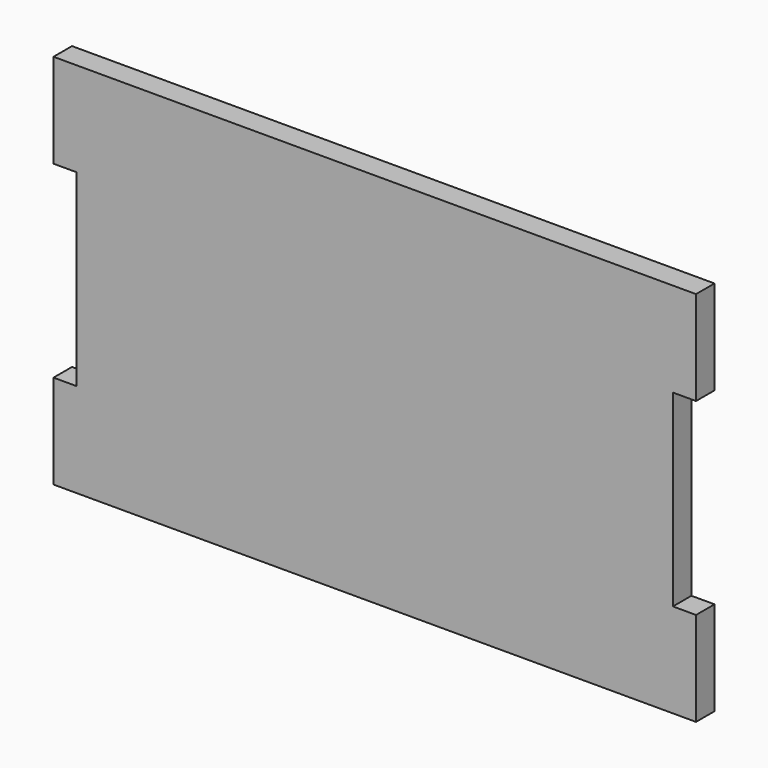
from build123d import *

# Parameters (mm, degrees)
F0_W     = 18.6944
F0_H     = 76.2
F1_DEPTH = 18.6944


with BuildPart() as f1:
    # F0 (on Front) → F1 (new body)
    with BuildSketch(Plane.XZ):
        with Locations((-313.006759, 153.359371)):
            Rectangle(F0_W, F0_H)
        with Locations((-313.006759, -75.240629)):
            Rectangle(F0_W, F0_H)
        with Locations((188.287641, 153.359371)):
            Rectangle(F0_W, F0_H)
        with Locations((188.287641, -75.240629)):
            Rectangle(F0_W, F0_H)
        Polygon((-303.659559, -37.140629), (-303.659559, -113.340629), (178.940441, -113.340629), (178.940441, -37.140629), (178.940441, 115.259371), (178.940441, 191.459371), (-303.659559, 191.459371), (-303.659559, 115.259371), align=None)
    extrude(amount=F1_DEPTH)


solid = f1.part
